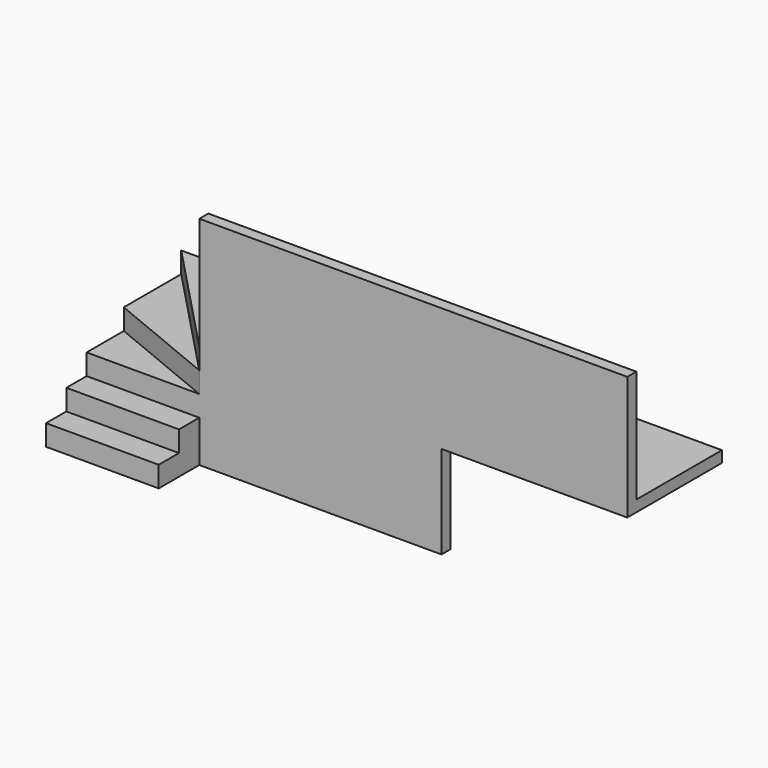
from build123d import *

# Parameters (mm, degrees)
F0_W      = 4876.8
F0_H      = 1066.8
F1_DEPTH  = 101.6
F3_DEPTH  = 1016
F5_DEPTH  = 101.6
F7_DEPTH  = 187.96
F9_DEPTH  = 187.96
F11_DEPTH = 1300.3193
F12_W     = 2184.4
F12_H     = 838.2
F13_DEPTH = 101.6
F14_W     = 3860.8
F14_H     = 101.6
F15_DEPTH = 1016


with BuildPart() as f1:
    # F0 (on Top) → F1 (new body)
    with BuildSketch(Plane.XY):
        Rectangle(F0_W, F0_H)
    extrude(amount=-F1_DEPTH)

    # F2 (on face) → F3 (join)
    with BuildSketch(Plane(origin=(-2438.4, 0, 0), x_dir=(0, -1, 0), z_dir=(-1, 0, 0))):
        Polygon((533.4, -187.96), (533.4, 0), (304.8, 0), (-533.4, 0), (-533.4, -939.8), (304.8, -939.8), (1447.8, -939.8), (1447.8, -751.84), (1219.2, -751.84), (1219.2, -563.88), (990.6, -563.88), (990.6, -375.92), (762, -375.92), (762, -187.96), align=None)
    extrude(amount=-F3_DEPTH)

    # F4 (on face) → F5 (join)
    with BuildSketch(Plane.XZ.offset(533.4)):
        Polygon((762, -101.6), (-1422.4, -101.6), (-1422.4, -187.96), (-1422.4, -939.8), (-812.8, -939.8), (-812.8, -228.6), (-355.6, -228.6), (-355.6, -939.8), (-304.8, -939.8), (-304.8, -228.6), (152.4, -228.6), (152.4, -939.8), (762, -939.8), align=None)
    extrude(amount=-F5_DEPTH)

    # F6 (on face) → F7 (cut)
    with BuildSketch(Plane.XY):
        Polygon((-2438.4, -533.4), (-1422.4, -533.4), (-2438.4, 533.4), align=None)
    extrude(amount=-F7_DEPTH, mode=Mode.SUBTRACT)

    # F8 (on face) → F9 (cut)
    with BuildSketch(Plane.XY.offset(-187.96)):
        Polygon((-1422.4, -762), (-1422.4, -533.4), (-2438.4, -114.3), (-2438.4, -533.4), (-2438.4, -762), align=None)
    extrude(amount=-F9_DEPTH, mode=Mode.SUBTRACT)

    # F10 (on face) → F11 (cut)
    with BuildSketch(Plane(origin=(-2438.4, 0, 0), x_dir=(0, -1, 0), z_dir=(-1, 0, 0))):
        Polygon((1447.8, -375.92), (533.4, -375.92), (533.4, -563.88), (762, -563.88), (762, -751.84), (990.6, -751.84), (990.6, -939.8), (1447.8, -939.8), align=None)
    extrude(amount=-F11_DEPTH, mode=Mode.SUBTRACT)

    # F12 (on face) → F13 (join)
    with BuildSketch(Plane.XZ.offset(533.4)):
        with Locations((-330.2, -520.7)):
            Rectangle(F12_W, F12_H)
    extrude(amount=-F13_DEPTH)

    # F14 (on face) → F15 (join)
    with BuildSketch(Plane.XY):
        with Locations((508, -482.6)):
            Rectangle(F14_W, F14_H)
    extrude(amount=F15_DEPTH)


solid = f1.part
